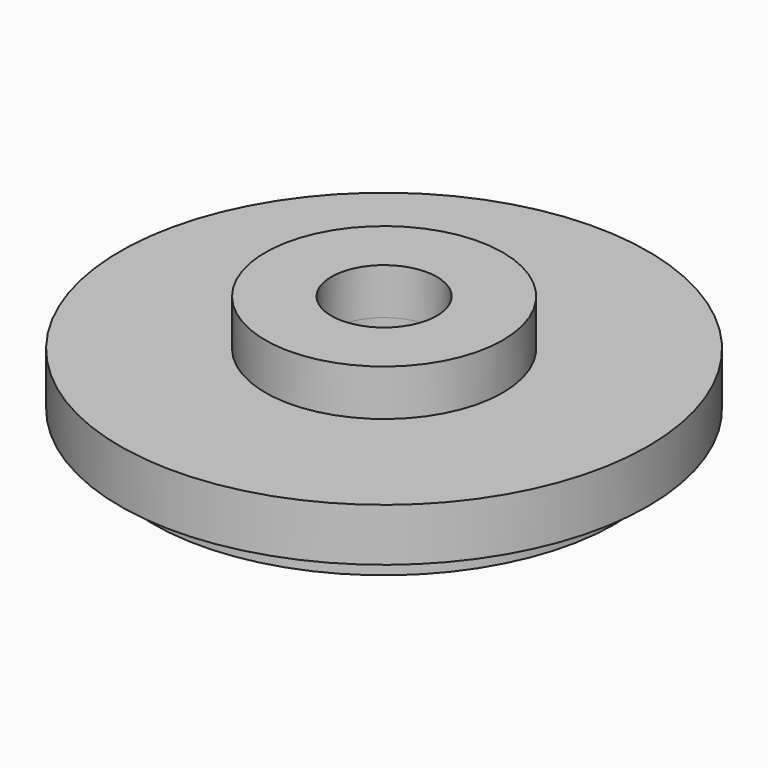
from build123d import *

# Parameters (mm, degrees)
F0_R     = 9
F0_R_2   = 4
F1_DEPTH = 3.5
F0_R_3   = 20
F2_DEPTH = 6
F3_R     = 10
F3_R_2   = 4
F4_DEPTH = 3
F3_R_3   = 20
F3_R_4   = 17.5
F5_DEPTH = 2


with BuildPart() as f1:
    # F0 (on Top) → F1 (new body)
    with BuildSketch(Plane.XY):
        Circle(F0_R)
        Circle(F0_R_2, mode=Mode.SUBTRACT)
    extrude(amount=F1_DEPTH)

    # F0 (on Top) → F2 (join)
    with BuildSketch(Plane.XY):
        Circle(F0_R_3)
        Circle(F0_R, mode=Mode.SUBTRACT)
        Circle(F0_R)
        Circle(F0_R_2, mode=Mode.SUBTRACT)
    extrude(amount=-F2_DEPTH)

    # F3 (on face) → F4 (cut)
    with BuildSketch(Plane(origin=(0, 0, -6), x_dir=(1, 0, 0), z_dir=(0, 0, -1))):
        Circle(F3_R)
        Circle(F3_R_2, mode=Mode.SUBTRACT)
    extrude(amount=-F4_DEPTH, mode=Mode.SUBTRACT)

    # F3 (on face) → F5 (cut)
    with BuildSketch(Plane(origin=(0, 0, -6), x_dir=(1, 0, 0), z_dir=(0, 0, -1))):
        Circle(F3_R_3)
        Circle(F3_R_4, mode=Mode.SUBTRACT)
    extrude(amount=-F5_DEPTH, mode=Mode.SUBTRACT)


solid = f1.part
